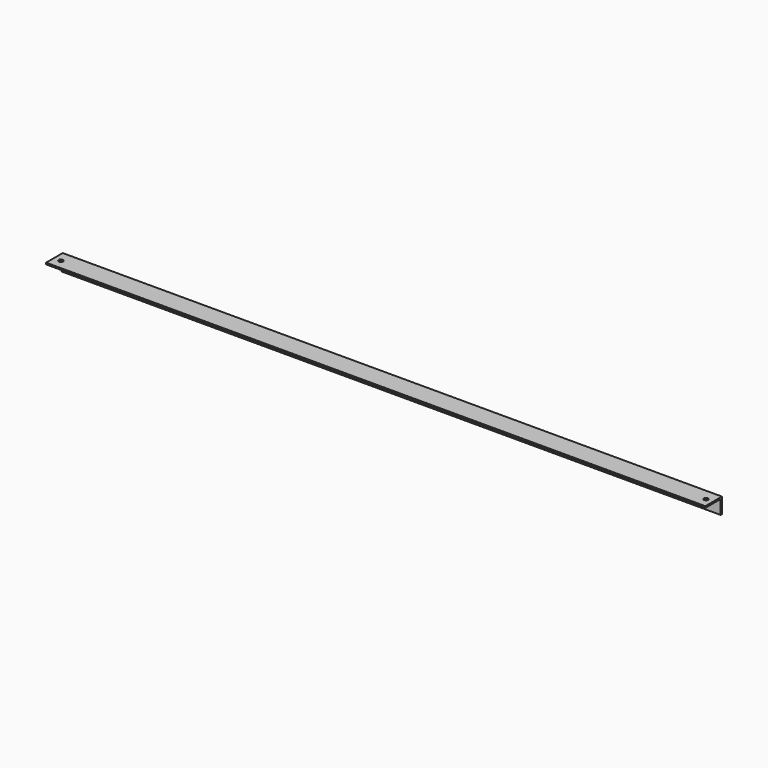
from build123d import *

# Parameters (mm, degrees)
EXTRUDE001_DEPTH = 634
SKETCH020_R      = 2.05
HOLE013_DEPTH    = 1283.986422


with BuildPart() as part:
    # Sketch → Extrude001 (new body)
    with BuildSketch(Plane(origin=(0, 0, 0), x_dir=(0, -1, 0), z_dir=(-1, 0, 0))):
        Polygon((-20, 0), (-20, 15), (0, 15), (0, 13.5), (-18.5, 13.5), (-18.5, 0), align=None)
    extrude(amount=-EXTRUDE001_DEPTH)

    # Sketch020 → Hole013 (cut, through all)
    with BuildSketch(Plane.XY.offset(15)):
        with Locations((6.75, 9.25)):
            Circle(SKETCH020_R)
    hole013 = extrude(amount=-HOLE013_DEPTH, mode=Mode.SUBTRACT)

    # Mirrored007: Hole013 across Sketch020 Axis0
    add(hole013.mirror(Plane(origin=(317, 18.5, 15), x_dir=(0, 0, 1), z_dir=(1, 0, 0))), mode=Mode.SUBTRACT)


with BuildPart() as part_1:
    # Body006 placement: moved
    add(part.part.moved(Location((3, 266.5, 173))))


solid = part_1.part
